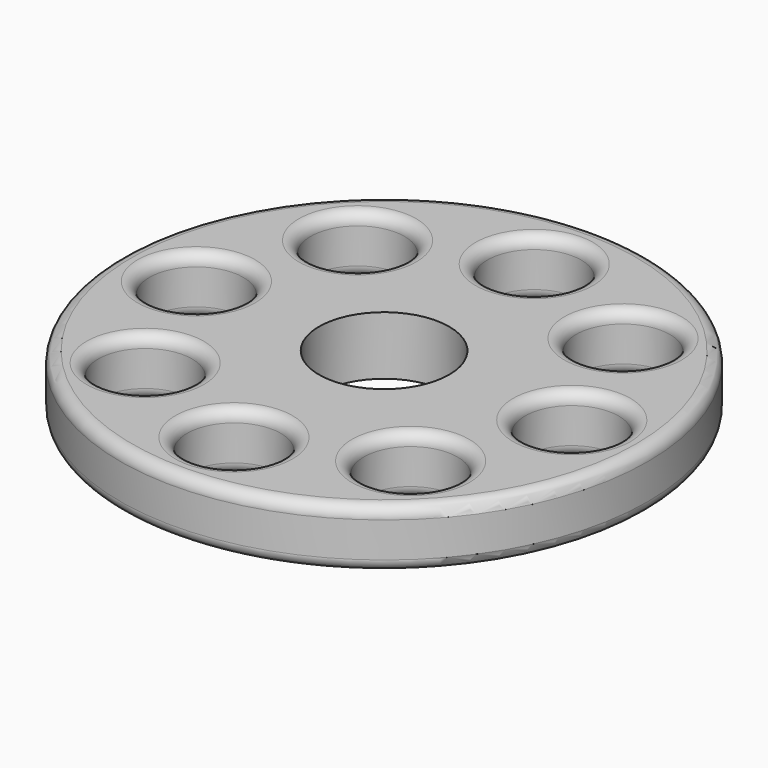
from build123d import *

# Parameters (mm, degrees)
F0_R     = 45
F0_R_2   = 8
F0_R_3   = 11.1
F1_DEPTH = 10
F2_R     = 2


with BuildPart() as f1:
    # F0 (on Top) → F1 (new body)
    with BuildSketch(Plane.XY):
        Circle(F0_R)
        with Locations((-22.627417, -22.627417)):
            Circle(F0_R_2, mode=Mode.SUBTRACT)
        with Locations((0, -32)):
            Circle(F0_R_2, mode=Mode.SUBTRACT)
        with Locations((22.627417, -22.627417)):
            Circle(F0_R_2, mode=Mode.SUBTRACT)
        with Locations((-32, 0)):
            Circle(F0_R_2, mode=Mode.SUBTRACT)
        with Locations((-22.627417, 22.627417)):
            Circle(F0_R_2, mode=Mode.SUBTRACT)
        Circle(F0_R_3, mode=Mode.SUBTRACT)
        with Locations((32, 0)):
            Circle(F0_R_2, mode=Mode.SUBTRACT)
        with Locations((0, 32)):
            Circle(F0_R_2, mode=Mode.SUBTRACT)
        with Locations((22.627417, 22.627417)):
            Circle(F0_R_2, mode=Mode.SUBTRACT)
    extrude(amount=F1_DEPTH)

    # F2
    f2_edges = [f1.edges().sort_by_distance(p)[0] for p in [
        (-45, 0, 10),
        (-45, 0, 0),
        (-8, 32, 10),
        (14.627417, 22.627417, 10),
        (24, 0, 10),
        (14.627417, -22.627417, 10),
        (-8, -32, 10),
        (-30.627417, -22.627417, 10),
        (-40, 0, 10),
        (-30.627417, 22.627417, 10),
        (-30.627417, 22.627417, 0),
        (-8, 32, 0),
        (14.627417, 22.627417, 0),
        (24, 0, 0),
        (14.627417, -22.627417, 0),
        (-8, -32, 0),
        (-30.627417, -22.627417, 0),
        (-40, 0, 0),
    ]]
    fillet(f2_edges, radius=F2_R)


solid = f1.part
